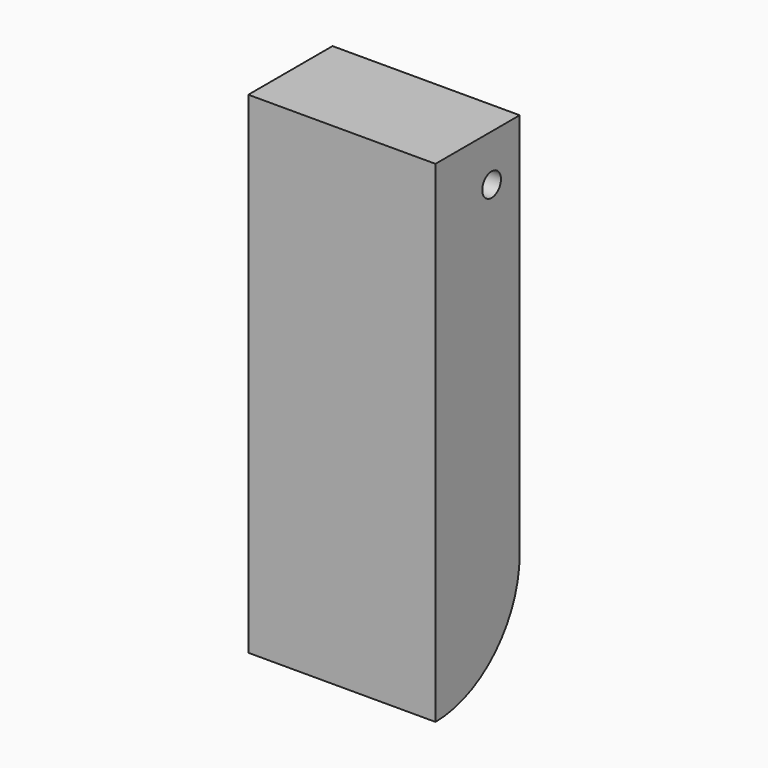
from build123d import *

# Parameters (mm, degrees)
F1_DEPTH = 50.8
F3_D     = 6.35


with BuildPart() as f1:
    # F0 (on Right) → F1 (new body)
    with BuildSketch(Plane.YZ):
        with BuildLine():
            Line((0, 133.35), (0, 0))
            ThreePointArc((0, 0), (20.205576, 8.369424), (28.575, 28.575))
            Line((28.575, 28.575), (28.575, 133.35))
            Line((28.575, 133.35), (0, 133.35))
        make_face()
    extrude(amount=F1_DEPTH)

    # F3 (through all)
    with Locations(Plane.YZ.offset(50.8)):
        with Locations((19.05, 120.65)):
            Hole(F3_D / 2)


solid = f1.part
